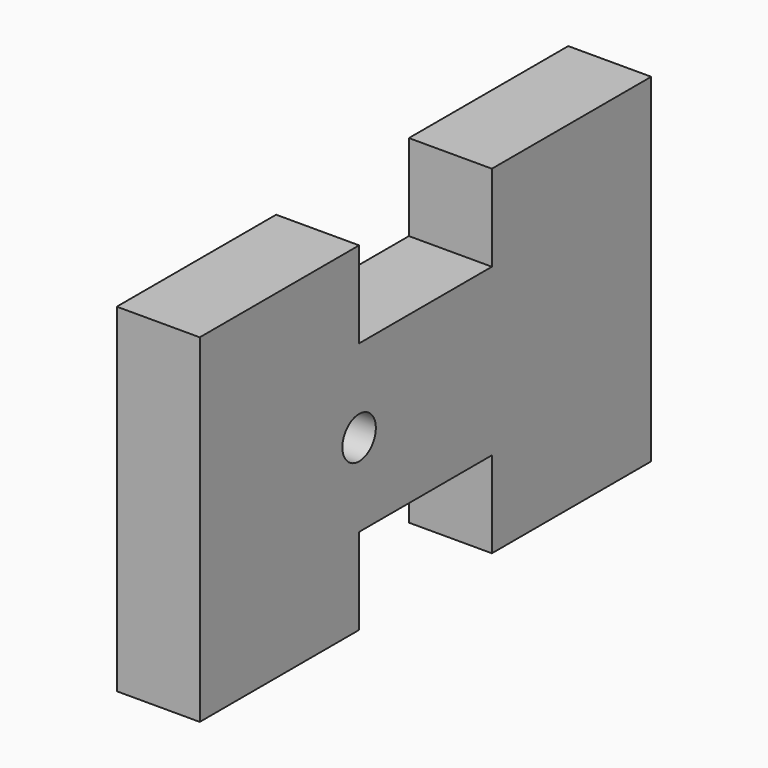
from build123d import *

# Parameters (mm, degrees)
F0_R     = 1.6002
F1_DEPTH = 6.35


with BuildPart() as f1:
    # F0 (on Right) → F1 (new body)
    with BuildSketch(Plane.YZ):
        Polygon((6.35, 0), (-6.35, 0), (-6.35, 6.604), (-21.59, 6.604), (-21.59, -19.304), (-6.35, -19.304), (-6.35, -12.7), (6.35, -12.7), (6.35, -19.304), (21.59, -19.304), (21.59, 6.604), (6.35, 6.604), align=None)
        with Locations((-6.35, -6.35)):
            Circle(F0_R, mode=Mode.SUBTRACT)
    extrude(amount=F1_DEPTH)


solid = f1.part
